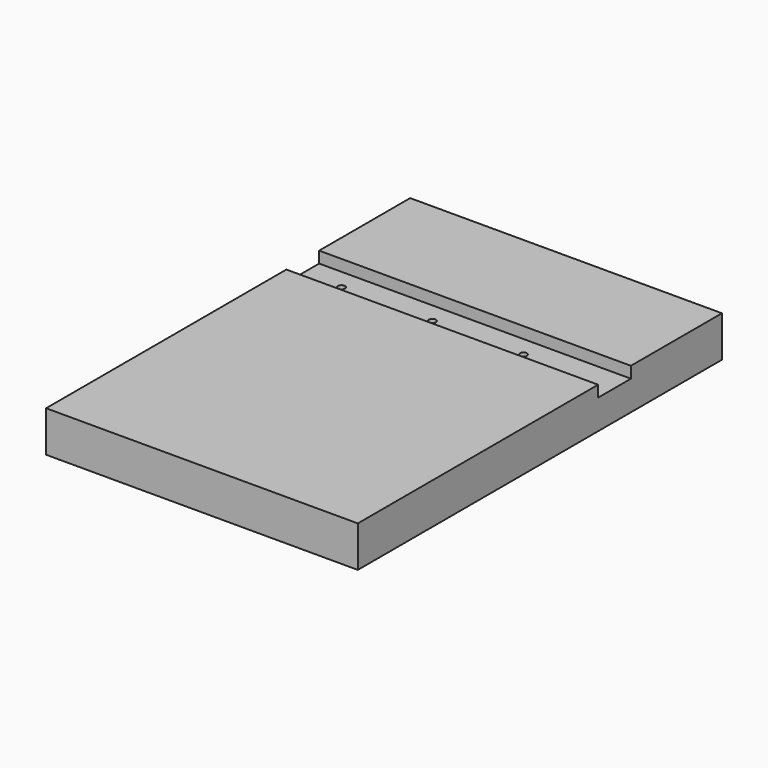
from build123d import *

# Parameters (mm, degrees)
BOX_W                    = 18
BOX_H                    = 200
BOX_DEPTH                = 137
SKETCH001_W              = 18
SKETCH001_H              = 137
POCKET001_DEPTH          = 5
SKETCH003_R              = 1.55
HOLE_DEPTH               = 13.001
CLONE003_PLACEMENT_ANGLE = 90


with BuildPart() as body002:
    # Box → Box (new body)
    with BuildSketch(Plane.XY):
        with Locations((9, 100)):
            Rectangle(BOX_W, BOX_H)
    extrude(amount=BOX_DEPTH)

    # Sketch001 (on Face2 of BaseFeature001) → Pocket001 (cut)
    with BuildSketch(Plane.YZ.offset(18)):
        with Locations((141, 68.5)):
            Rectangle(SKETCH001_W, SKETCH001_H)
    extrude(amount=-POCKET001_DEPTH, mode=Mode.SUBTRACT)

    # Sketch003 (on Face9 of Pocket001) → Hole (cut, through all)
    with BuildSketch(Plane.YZ.offset(13)):
        with Locations((141, 97)):
            Circle(SKETCH003_R)
        with Locations((141, 57)):
            Circle(SKETCH003_R)
        with Locations((141, 17)):
            Circle(SKETCH003_R)
    extrude(amount=-HOLE_DEPTH, mode=Mode.SUBTRACT)


with BuildPart() as rightleg_cnc:
    # Part__Mirroring: instance of Body002
    add(body002.part.mirror(Plane(origin=(0, 0, 0), x_dir=(0, -1, 0), z_dir=(1, 0, 0))))


with BuildPart() as rightleg_cnc_1:
    # Part__Mirroring placement: moved
    add(rightleg_cnc.part.moved(Location((350, 0, 0))))


with BuildPart() as rightleg_cnc_2:
    # Clone003 placement: moved
    add(rightleg_cnc_1.part.moved(Location((0, 0, 350))).rotate(Axis((0, 0, 350), (0, 1, 0)), CLONE003_PLACEMENT_ANGLE))


solid = rightleg_cnc_2.part
